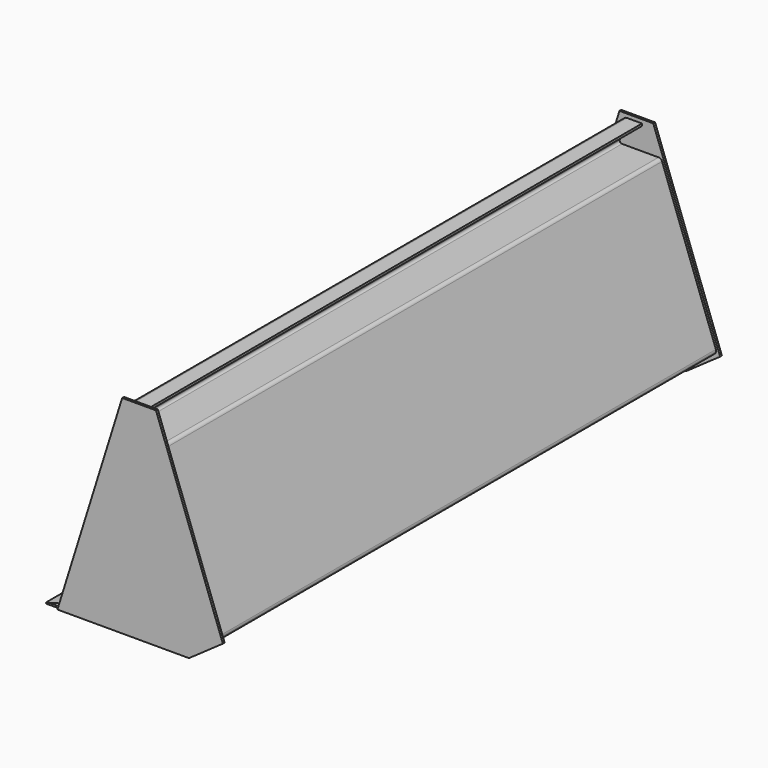
from build123d import *

# Parameters (mm, degrees)
F1_DEPTH = 6
F3_DEPTH = 1648
F6_DEPTH = 1648
F7_SIZE2 = 7
F7_SIZE  = 35
F8_SIZE  = 5


with BuildPart() as f1:
    # F0 (on Front) → F1 (new body)
    with BuildSketch(Plane.XZ):
        Polygon((172.2562503424, 551.7335708073), (0, 0), (350, 0), (440.1067248718, 63.0934079986), (262.2562503424, 551.7335708073), align=None)
    extrude(amount=F1_DEPTH)


with BuildPart() as f3:
    # F2 (on Front) → F3 (new body)
    with BuildSketch(Plane.XZ):
        with BuildLine():
            Line((232.2562503424, 541.7335708073), (192.2021726929, 541.7335708073))
            ThreePointArc((192.2021726929, 541.7335708073), (186.277740315, 539.7896927651), (182.6565827394, 534.7137910072))
            Line((182.6565827394, 534.7137910072), (166.7339178296, 483.7137910072))
            ThreePointArc((166.7339178296, 483.7137910072), (168.2233858253, 474.8091384294), (176.2795077831, 470.7335708073))
            Line((176.2795077831, 470.7335708073), (274.766460819, 470.7335708073))
            ThreePointArc((274.766460819, 470.7335708073), (278.2079194371, 469.648483073), (280.4046165437, 466.7856916672))
            Line((280.4046165437, 466.7856916672), (422.6901290366, 75.8594589775))
            ThreePointArc((422.6901290366, 75.8594589775), (422.7742750164, 72.0031033206), (420.49343193, 68.8924258519))
            Line((420.49343193, 68.8924258519), (344.9552193779, 16))
            ThreePointArc((344.9552193779, 16), (343.3179955569, 15.1926105612), (341.5137607598, 14.9149122657))
            Line((341.5137607598, 14.9149122657), (10, 14.9149122657))
            Line((10, 14.9149122657), (10, 10))
            Line((10, 10), (65, 10))
            Line((65, 10), (343.6940242224, 10))
            ThreePointArc((343.6940242224, 10), (346.7010822175, 10.4628304925), (349.4297885859, 11.8084795571))
            Line((349.4297885859, 11.8084795571), (425.1920054898, 64.8577549447))
            ThreePointArc((425.1920054898, 64.8577549447), (428.9934106338, 70.0422173925), (428.8531673342, 76.4694768208))
            Line((428.8531673342, 76.4694768208), (285.5638021033, 470.1537722405))
            ThreePointArc((285.5638021033, 470.1537722405), (281.902640259, 474.9250912502), (276.1668758955, 476.7335708073))
            Line((276.1668758955, 476.7335708073), (178.9991343883, 476.7335708073))
            ThreePointArc((178.9991343883, 476.7335708073), (174.1654612136, 479.1789113805), (173.2717804162, 484.5217029272))
            Line((173.2717804162, 484.5217029272), (187.9456088625, 531.5217029272))
            ThreePointArc((187.9456088625, 531.5217029272), (190.1183034079, 534.567243982), (193.6729628346, 535.7335708073))
            Line((193.6729628346, 535.7335708073), (232.2562503424, 535.7335708073))
            Line((232.2562503424, 535.7335708073), (232.2562503424, 541.7335708073))
        make_face()
    extrude(amount=-F3_DEPTH)


with BuildPart() as f5_1:
    # F5: instance of F1
    add(f1.part.mirror(Plane(origin=(221.411542994, 824, 218.4541908403), x_dir=(1, 0, 0), z_dir=(0, 1, 0))))


with BuildPart() as f6:
    # F2 (on Front) → F6 (new body)
    with BuildSketch(Plane.XZ):
        Polygon((65, 10), (10, 10), (-35, 10), (-35, 0), (65, 0), align=None)
    extrude(amount=-F6_DEPTH)

    # F7
    f7_edges = [f6.edges().sort_by_distance(p)[0] for p in [
        (-35, 824, 10),
    ]]
    f7_side = f6.faces().sort_by_distance((15, 824, 10))[0]
    chamfer(f7_edges, length=F7_SIZE, length2=F7_SIZE2, reference=f7_side)

    # F8
    f8_edges = [f6.edges().sort_by_distance(p)[0] for p in [
        (32.5, 0, 10),
        (32.5, 1648, 10),
    ]]
    chamfer(f8_edges, length=F8_SIZE)


solid = Compound([f1.part, f3.part, f5_1.part, f6.part])
